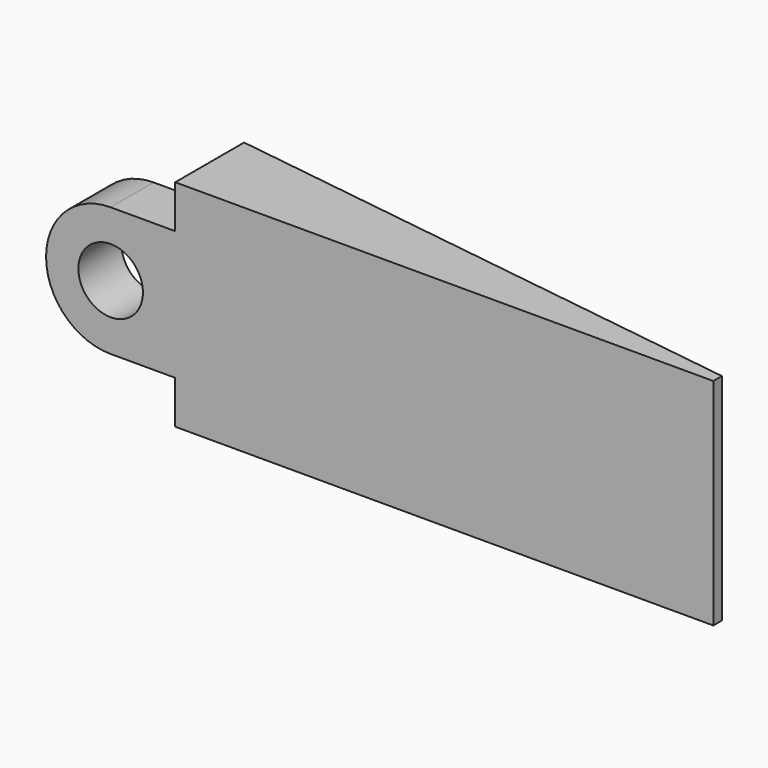
from build123d import *

# Parameters (mm, degrees)
PAD_DEPTH    = 20
SKETCH001_W  = 5
SKETCH001_H  = 12
PAD001_DEPTH = 12
FILLET_R     = 5.99
SKETCH002_R  = 3
POCKET_DEPTH = 5


with BuildPart() as part:
    # Sketch → Pad (new body)
    with BuildSketch(Plane.XY):
        Polygon((0, 0), (50, 0), (50, 1), (0, 8), align=None)
    extrude(amount=PAD_DEPTH)

    # Sketch001 → Pad001 (new body)
    with BuildSketch(Plane(origin=(0, 0, 0), x_dir=(0, -1, 0), z_dir=(-1, 0, 0))):
        with Locations((-2.5, 10)):
            Rectangle(SKETCH001_W, SKETCH001_H)
    extrude(amount=PAD001_DEPTH)

    # Fillet
    fillet_edges = [part.edges().sort_by_distance(p)[0] for p in [
        (-12, 2.5, 16),
        (-12, 2.5, 4),
    ]]
    fillet(fillet_edges, radius=FILLET_R)

    # Sketch002 → Pocket (cut)
    with BuildSketch(Plane(origin=(0, 5, 0), x_dir=(-1, 0, 0), z_dir=(0, 1, 0))):
        with Locations((6, 10)):
            Circle(SKETCH002_R)
    extrude(amount=-POCKET_DEPTH, mode=Mode.SUBTRACT)


solid = part.part
